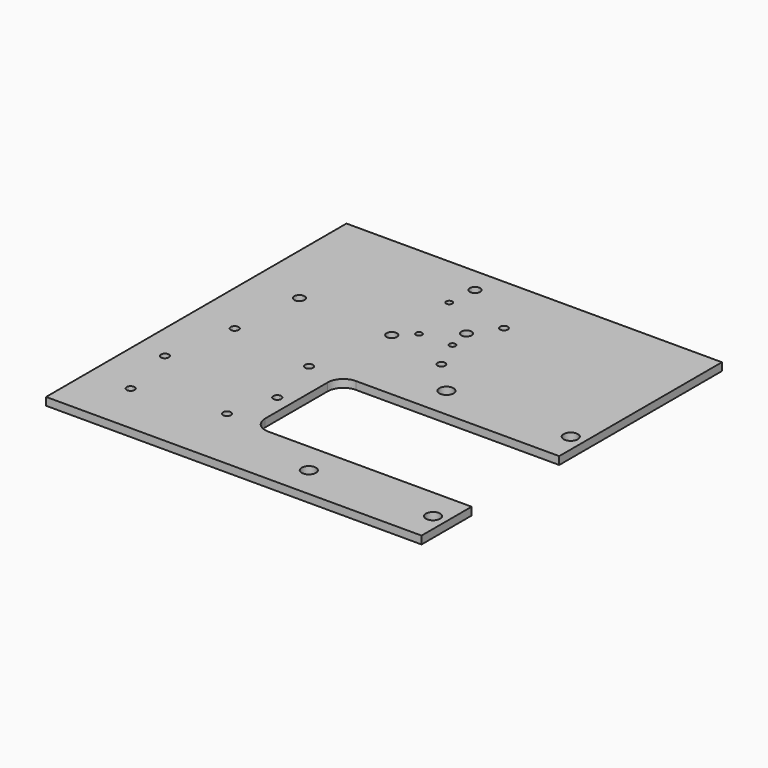
from build123d import *

# Parameters (mm, degrees)
F0_W      = 304.8
F0_H      = 304.8
F1_DEPTH  = 3.175
F2_W      = 177.8
F2_H      = 88.9
F3_DEPTH  = 6.351
F4_R      = 12.7
F5_R      = 5.75437
F6_DEPTH  = 6.351
F7_R      = 4.2164
F8_DEPTH  = 6.351
F9_R      = 4.2164
F10_DEPTH = 6.351
F11_R     = 3.175
F12_DEPTH = 6.351
F13_R     = 3.2639
F14_DEPTH = 6.351
F15_R     = 2.4892
F16_DEPTH = 25.4


with BuildPart() as f1:
    # F0 (on Top) → F1 (new body, symmetric)
    with BuildSketch(Plane.XY):
        Rectangle(F0_W, F0_H)
    extrude(amount=F1_DEPTH, both=True)

    # F2 (on face) → F3 (cut, through all)
    with BuildSketch(Plane.XY.offset(3.175)):
        with Locations((63.5, -57.15)):
            Rectangle(F2_W, F2_H)
    extrude(amount=-F3_DEPTH, mode=Mode.SUBTRACT)

    # F4
    f4_edges = [f1.edges().sort_by_distance(p)[0] for p in [
        (-25.4, -12.7, 0),
        (-25.4, -101.6, 0),
    ]]
    fillet(f4_edges, radius=F4_R)

    # F5 (on face) → F6 (cut, through all)
    with BuildSketch(Plane.XY.offset(3.175)):
        with Locations((40.55237, -127)):
            Circle(F5_R)
        with Locations((141.43863, -127)):
            Circle(F5_R)
        with Locations((40.55237, 12.7)):
            Circle(F5_R)
        with Locations((141.43863, 12.7)):
            Circle(F5_R)
    extrude(amount=-F6_DEPTH, mode=Mode.SUBTRACT)

    # F7 (on face) → F8 (cut, through all)
    with BuildSketch(Plane.XY.offset(3.175)):
        with Locations((-31.75, 132.08)):
            Circle(F7_R)
        with Locations((1.257298, 82.042)):
            Circle(F7_R)
    extrude(amount=-F8_DEPTH, mode=Mode.SUBTRACT)

    # F9 (on face) → F10 (cut, through all)
    with BuildSketch(Plane.XY.offset(3.175)):
        with Locations((-111.76, 53.848)):
            Circle(F9_R)
        with Locations((-34.349984, 50.8)):
            Circle(F9_R)
    extrude(amount=-F10_DEPTH, mode=Mode.SUBTRACT)

    # F11 (on face) → F12 (cut, through all)
    with BuildSketch(Plane.XY.offset(3.175)):
        with Locations((15.24, 102.616)):
            Circle(F11_R)
        with Locations((15.24, 39.116)):
            Circle(F11_R)
    extrude(amount=-F12_DEPTH, mode=Mode.SUBTRACT)

    # F13 (on face) → F14 (cut, through all)
    with BuildSketch(Plane.XY.offset(3.175)):
        with Locations((-48.4378, -98.806)):
            Circle(F13_R)
        with Locations((-128.7018, -61.468)):
            Circle(F13_R)
        with Locations((-117.729, -109.9312)):
            Circle(F13_R)
        with Locations((-37.4142, -61.468)):
            Circle(F13_R)
        with Locations((-48.4378, -15.494)):
            Circle(F13_R)
        with Locations((-117.729, -4.3688)):
            Circle(F13_R)
    extrude(amount=-F14_DEPTH, mode=Mode.SUBTRACT)

    # F15 (on face) → F16 (cut)
    with BuildSketch(Plane.XY.offset(3.175)):
        with Locations((-21.8948, 62.8904)):
            Circle(F15_R)
        with Locations((-33.782, 108.4072)):
            Circle(F15_R)
        with Locations((4.237579, 64.135)):
            Circle(F15_R)
    extrude(amount=-F16_DEPTH, mode=Mode.SUBTRACT)


solid = f1.part
